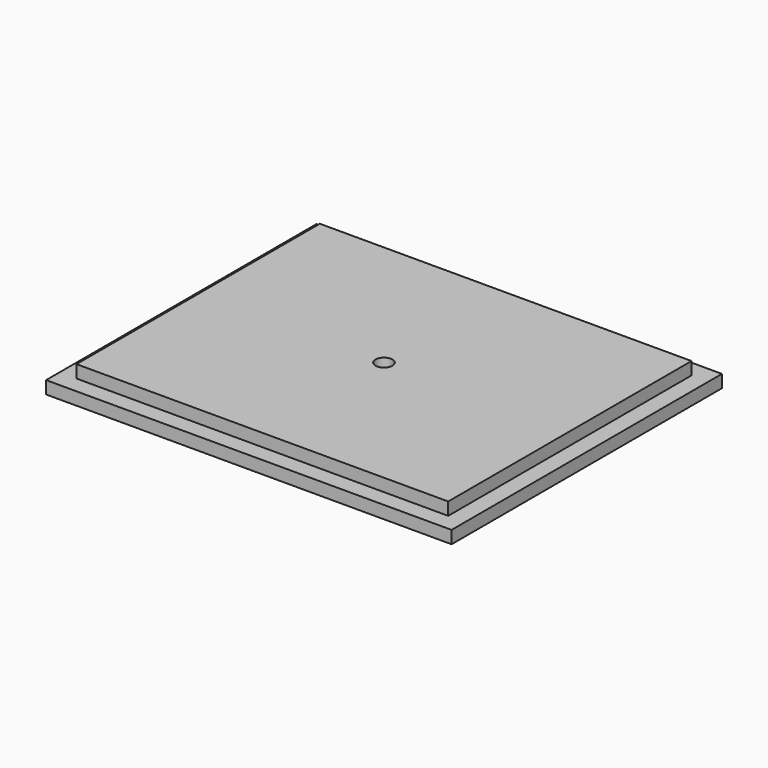
from build123d import *

# Parameters (mm, degrees)
F1_W     = 279.4
F1_H     = 228.6
F1_W_2   = 304.8
F1_H_2   = 254
F2_DEPTH = 9.525
F3_W     = 279.4
F3_H     = 228.6
F4_DEPTH = 9.525
F5_R     = 6.35
F6_DEPTH = 33.178601


with BuildPart() as f2:
    # F1 (on face) → F2 (new body)
    with BuildSketch(Plane.XY):
        Rectangle(F1_W, F1_H)
        Rectangle(F1_W_2, F1_H_2)
        Rectangle(F1_W, F1_H, mode=Mode.SUBTRACT)
    extrude(amount=F2_DEPTH)

    # F3 (on face) → F4 (join, symmetric)
    with BuildSketch(Plane.XY.offset(9.525)):
        Rectangle(F3_W, F3_H)
    extrude(amount=F4_DEPTH, both=True)

    # F5 (on face) → F6 (cut, symmetric)
    with BuildSketch(Plane.XY.offset(19.05)):
        Circle(F5_R)
    extrude(amount=F6_DEPTH, both=True, mode=Mode.SUBTRACT)


solid = f2.part
